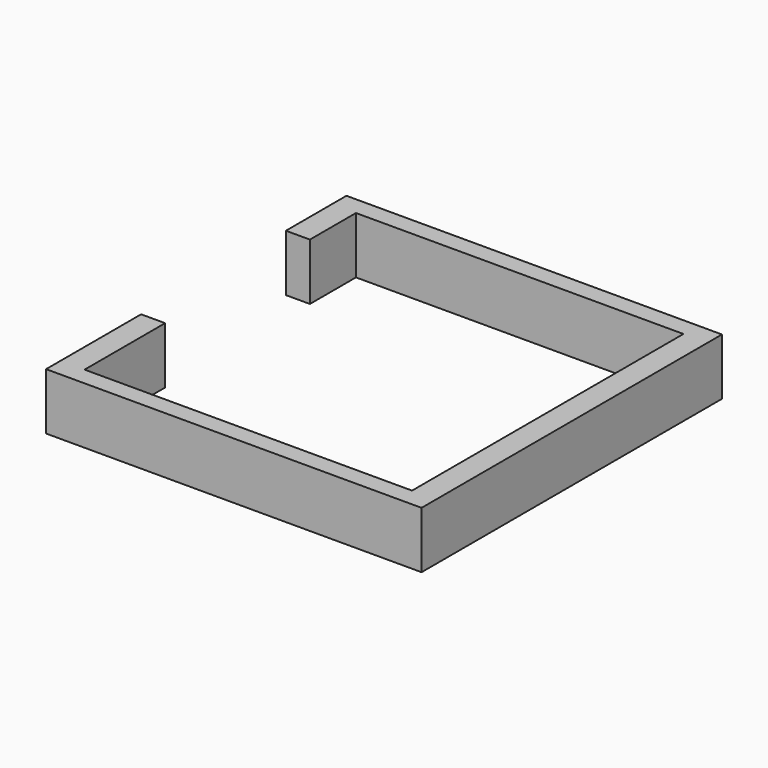
from build123d import *

# Parameters (mm, degrees)
F1_DEPTH = 38.354


with BuildPart() as f1:
    # F0 (on Top) → F1 (new body)
    with BuildSketch(Plane.XY):
        Polygon((127, -127), (127, 127), (-127, 127), (-127, 75.789325), (-110.764208, 75.789325), (-110.764208, 114.732962), (-38.048085, 114.732962), (36.207046, 114.732962), (110.764208, 114.732962), (110.764208, 75.789325), (110.764208, -46.639588), (110.764208, -114.732962), (36.207046, -114.732962), (-38.048085, -114.732962), (-110.764208, -114.732962), (-110.764208, -46.639588), (-127, -46.639588), (-127, -127), align=None)
    extrude(amount=F1_DEPTH)


solid = f1.part
